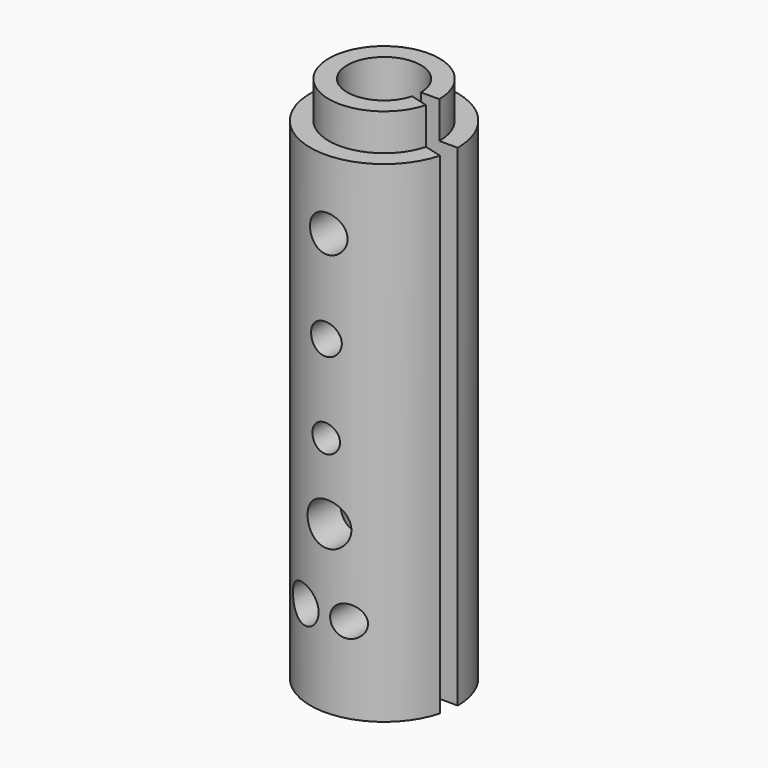
from build123d import *

# Parameters (mm, degrees)
F1_ANGLE  = 345
F8_D      = 6
F8_DEPTH  = 12.001
F9_D      = 5
F9_DEPTH  = 12.0010001
F10_D     = 4.5
F10_DEPTH = 12.0010001006
F11_D     = 7
F11_DEPTH = 12.0010001006
F12_D     = 6
F12_DEPTH = 12.001000103
F13_D     = 5
F13_DEPTH = 12.001000103


with BuildPart() as f1:
    # F0 (on Front) → F1 (revolve)
    with BuildSketch(Plane.XZ):
        Polygon((25.1722027957, 100.8808328976), (25.1722027957, 20.8808328976), (28.1722027957, 20.8808328976), (28.1722027957, 14.8808328976), (31.1722027957, 14.8808328976), (31.1722027957, 94.8808328976), (28.1722027957, 94.8808328976), (28.1722027957, 100.8808328976), align=None)
    revolve(axis=Axis((19.1722027957, 0, 37.7046503127), (0, 0, 1)), revolution_arc=F1_ANGLE)

    # F8 (through all, one way)
    with BuildSketch(Plane(origin=(0, 0, 0), x_dir=(1, 0, 0), z_dir=(0, 1, 0))):
        with Locations((19.4538831711, -83.6319848895)):
            Circle(F8_D / 2)
    extrude(amount=-F8_DEPTH, mode=Mode.SUBTRACT)

    # F9 (through all, one way)
    with BuildSketch(Plane(origin=(0, 0, 0), x_dir=(1, 0, 0), z_dir=(0, 1, 0))):
        with Locations((19.1739778966, -68.4388652444)):
            Circle(F9_D / 2)
    extrude(amount=-F9_DEPTH, mode=Mode.SUBTRACT)

    # F10 (through all, one way)
    with BuildSketch(Plane(origin=(0, 0, 0), x_dir=(1, 0, 0), z_dir=(0, 1, 0))):
        with Locations((19.1739778966, -54.2075932026)):
            Circle(F10_D / 2)
    extrude(amount=-F10_DEPTH, mode=Mode.SUBTRACT)

    # F11 (through all, one way)
    with BuildSketch(Plane(origin=(0, 0, 0), x_dir=(1, 0, 0), z_dir=(0, 1, 0))):
        with Locations((19.4538831711, -41.9842377305)):
            Circle(F11_D / 2)
    extrude(amount=-F11_DEPTH, mode=Mode.SUBTRACT)

    # F12 (through all, one way)
    with BuildSketch(Plane(origin=(0, 0, 0), x_dir=(1, 0, 0), z_dir=(0, 1, 0))):
        with Locations((15.0699084625, -28.8323182613)):
            Circle(F12_D / 2)
    extrude(amount=-F12_DEPTH, mode=Mode.SUBTRACT)

    # F13 (through all, one way)
    with BuildSketch(Plane(origin=(0, 0, 0), x_dir=(1, 0, 0), z_dir=(0, 1, 0))):
        with Locations((22.4678628147, -28.8323182613)):
            Circle(F13_D / 2)
    extrude(amount=-F13_DEPTH, mode=Mode.SUBTRACT)


solid = f1.part
